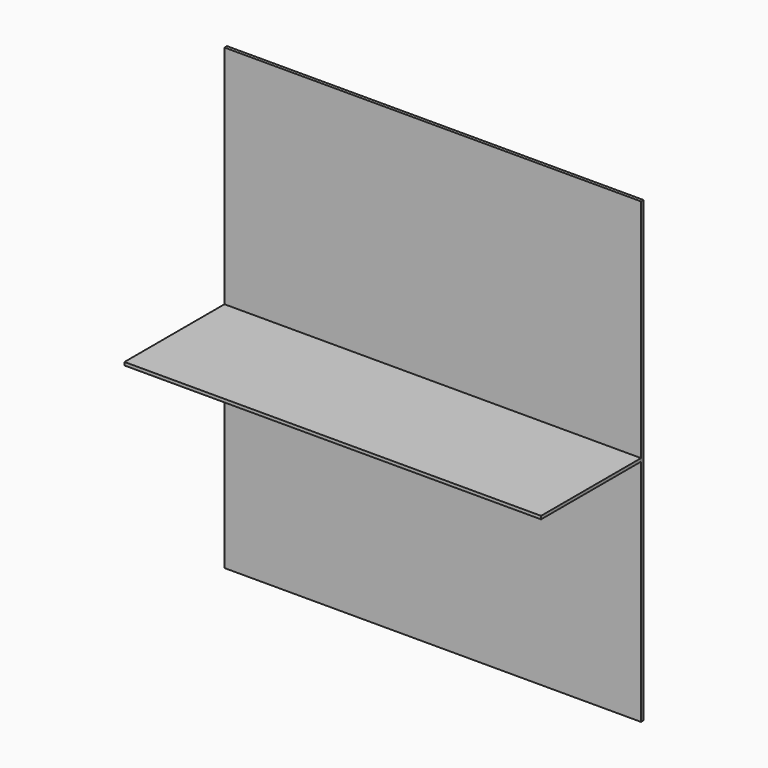
from build123d import *

# Parameters (mm, degrees)
F0_W     = 2000
F0_H     = 2200
F1_DEPTH = 15
F2_W     = 2000
F2_H     = 600
F3_DEPTH = 15


with BuildPart() as f1:
    # F0 (on Front) → F1 (new body)
    with BuildSketch(Plane.XZ):
        Rectangle(F0_W, F0_H)
    extrude(amount=F1_DEPTH)


with BuildPart() as f3:
    # F2 (on Top) → F3 (new body)
    with BuildSketch(Plane.XY):
        with Locations((0, -315)):
            Rectangle(F2_W, F2_H)
    extrude(amount=F3_DEPTH)


solid = Compound([f1.part, f3.part])
